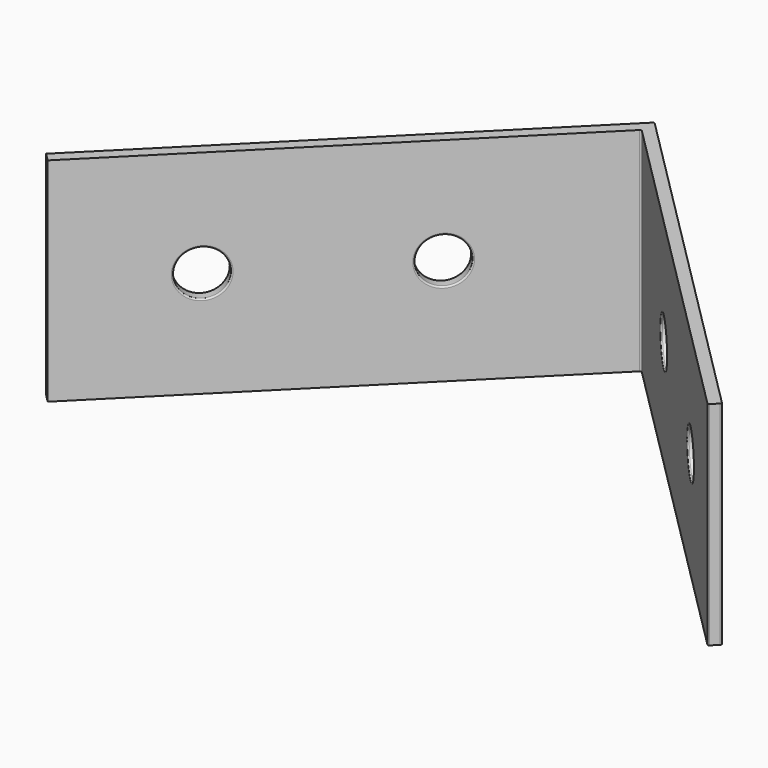
from build123d import *

# Parameters (mm, degrees)
F1_DEPTH = 28
F2_R     = 3
F3_DEPTH = 2
F5_R     = 0.2


with BuildPart() as f1:
    # F0 (on Top) → F1 (new body)
    with BuildSketch(Plane.XY):
        Polygon((44.5477272148, -44.5477272148), (0, 0), (0, -2.1213203436), (43.487067043, -45.6083873865), align=None)
    extrude(amount=F1_DEPTH)

    # F2 (on face) → F3 (cut)
    with BuildSketch(Plane(origin=(0, 0, 0), x_dir=(-0.7071067812, 0.7071067812, 0), z_dir=(0.7071067812, 0.7071067812, 0))):
        with Locations((-22, 14)):
            Circle(F2_R)
        with Locations((-47, 14)):
            Circle(F2_R)
    extrude(amount=-F3_DEPTH, mode=Mode.SUBTRACT)

    # F4: F1 across plane


with BuildPart() as f1_1:
    add(f1.part)
    add(f1.part.mirror(Plane.YZ))

    # F5
    f5_edges = [f1_1.edges().sort_by_distance(p)[0] for p in [
        (44.547727, -44.547727, 14),
        (43.487067, -45.608387, 14),
        (0, 0, 14),
        (0, -2.12132, 14),
        (-17.67767, -17.67767, 14),
        (-12.904699, -13.965359, 14),
        (-16.617009, -18.73833, 14),
        (-35.355339, -35.355339, 14),
        (-30.582368, -31.643028, 14),
        (-34.294679, -36.415999, 14),
        (17.67767, -17.67767, 14),
        (12.904699, -13.965359, 14),
        (16.617009, -18.73833, 14),
        (35.355339, -35.355339, 14),
        (30.582368, -31.643028, 14),
        (34.294679, -36.415999, 14),
    ]]
    fillet(f5_edges, radius=F5_R)


solid = f1_1.part
